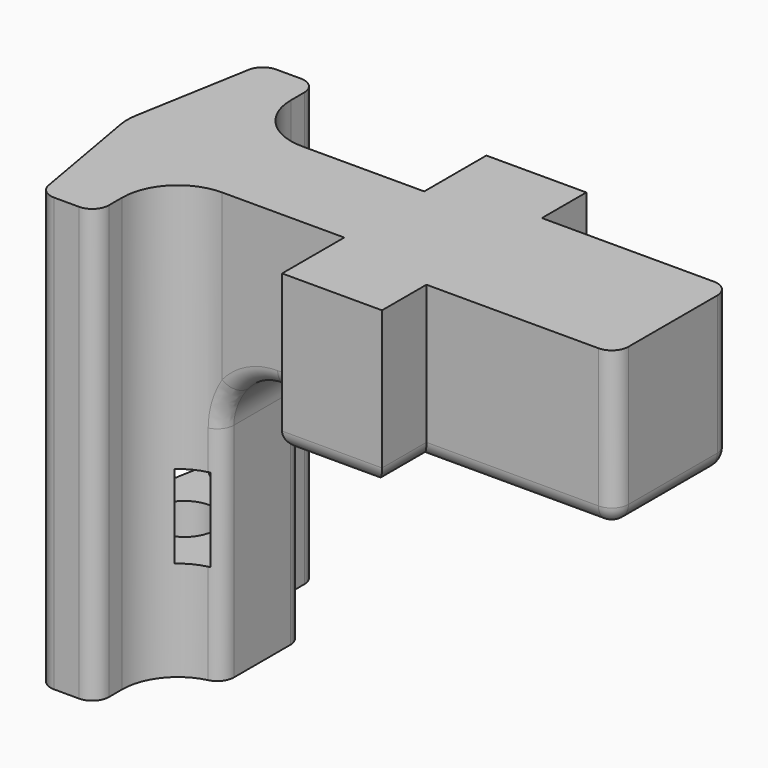
from build123d import *

# Parameters (mm, degrees)
F1_DEPTH = 2.8
F2_R     = 0.55
F3_DEPTH = 5
F4_R     = 1
F5_R     = 0.3
F7_W     = 2.5907744158
F7_H     = 2.3
F8_DEPTH = 1.5
F9_R     = 0.5


with BuildPart() as f1:
    # F0 (on Top) → F1 (new body)
    with BuildSketch(Plane.XY):
        with BuildLine():
            Line((-4.2, -2.5), (-3.2, -2.5))
            Line((-3.2, -2.5), (-3.2, -1.9))
            ThreePointArc((-3.2, -1.9), (-2.9071067812, -1.1928932188), (-2.2, -0.9))
            Line((-2.2, -0.9), (0, -0.9))
            Line((0, -0.9), (0, -2.3))
            Line((0, -2.3), (1.8, -2.3))
            Line((1.8, -2.3), (1.8, -1.3))
            Line((1.8, -1.3), (5.2, -1.3))
            Line((5.2, -1.3), (5.2, 0))
            Line((5.2, 0), (5.2, 1.3))
            Line((5.2, 1.3), (1.8, 1.3))
            Line((1.8, 1.3), (1.8, 2.3))
            Line((1.8, 2.3), (0, 2.3))
            Line((0, 2.3), (0, 0.9))
            Line((0, 0.9), (-2.2, 0.9))
            ThreePointArc((-2.2, 0.9), (-2.9071067812, 1.1928932188), (-3.2, 1.9))
            Line((-3.2, 1.9), (-3.2, 2.5))
            Line((-3.2, 2.5), (-4.2, 2.5))
            Line((-4.2, 2.5), (-4.6408174518, 0))
            Line((-4.6408174518, 0), (-4.2, -2.5))
        make_face()
    extrude(amount=F1_DEPTH)

    # F2 (on face) → F3 (join)
    with BuildSketch(Plane(origin=(0, 0, 0), x_dir=(1, 0, 0), z_dir=(0, 0, -1))):
        with BuildLine():
            Line((-4.2, -2.5), (-3.2, -2.5))
            Line((-3.2, -2.5), (-3.2, -1.9))
            ThreePointArc((-3.2, -1.9), (-2.9071067812, -1.1928932188), (-2.2, -0.9))
            Line((-2.2, -0.9), (-2.2, 0.9))
            ThreePointArc((-2.2, 0.9), (-2.9071067812, 1.1928932188), (-3.2, 1.9))
            Line((-3.2, 1.9), (-3.2, 2.5))
            Line((-3.2, 2.5), (-4.2, 2.5))
            Line((-4.2, 2.5), (-4.6408174518, 0))
            Line((-4.6408174518, 0), (-4.2, -2.5))
        make_face()
        with Locations((-3.6, 0)):
            Circle(F2_R, mode=Mode.SUBTRACT)
    extrude(amount=F3_DEPTH)

    # F4
    f4_edges = [f1.edges().sort_by_distance(p)[0] for p in [
        (-2.2, 0, 0),
        (-4.640817, 0, -1.1),
    ]]
    fillet(f4_edges, radius=F4_R)

    # F5
    f5_edges = [f1.edges().sort_by_distance(p)[0] for p in [
        (5.2, -1.3, 1.4),
        (5.2, 1.3, 1.4),
        (-3.2, 2.5, -1.1),
        (-4.2, 2.5, -1.1),
        (-3.2, -2.5, -1.1),
        (-4.2, -2.5, -1.1),
        (-0.6, 0.9, 0),
        (-1.2, 0, 0),
        (0, 1.6, 0),
        (-0.6, -0.9, 0),
        (0.9, 2.3, 0),
        (0, -1.6, 0),
        (1.8, 1.8, 0),
        (0.9, -2.3, 0),
        (3.5, 1.3, 0),
        (1.8, -1.8, 0),
        (5.2, 0, 0),
        (3.5, -1.3, 0),
    ]]
    fillet(f5_edges, radius=F5_R)

    # F7 (on offset) → F8 (cut)
    with BuildSketch(Plane.XY.offset(-3.2)):
        with Locations((-3.6953872079, 0)):
            Rectangle(F7_W, F7_H)
    extrude(amount=F8_DEPTH, mode=Mode.SUBTRACT)

    # F9
    f9_edges = [f1.edges().sort_by_distance(p)[0] for p in [
        (-4.438041, 1.15, -2.45),
        (-4.438041, -1.15, -2.45),
    ]]
    fillet(f9_edges, radius=F9_R)


solid = f1.part
